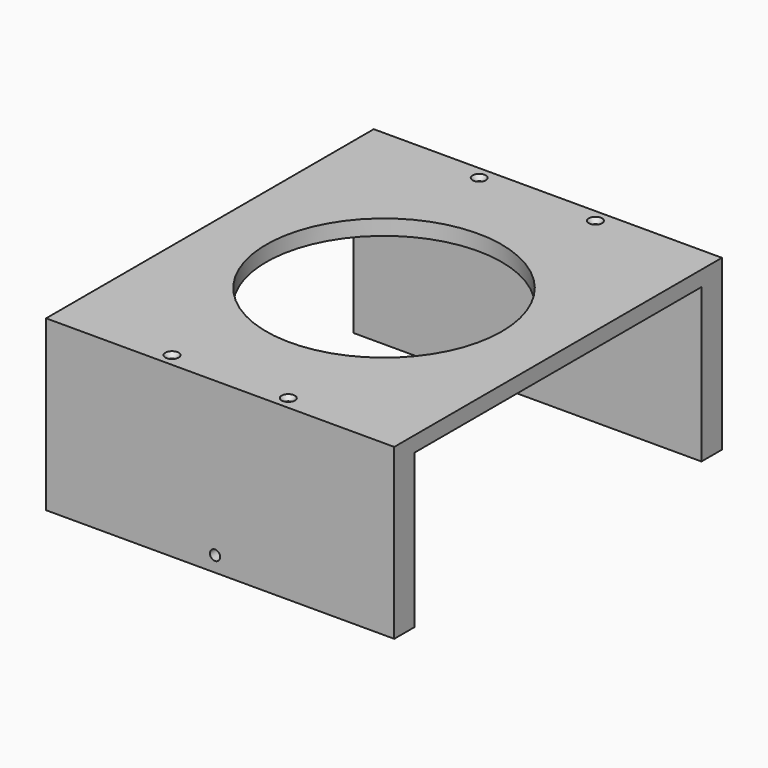
from build123d import *

# Parameters (mm, degrees)
SKETCH009_W     = 68
SKETCH009_H     = 80
PAD005_DEPTH    = 3
SKETCH010_R     = 23
POCKET004_DEPTH = 3
SKETCH011_W     = 68
SKETCH011_H     = 5
PAD006_DEPTH    = 30
SKETCH024_R     = 1
POCKET017_DEPTH = 5
SKETCH025_R     = 1
POCKET018_DEPTH = 5
SKETCH026_R     = 0.5
POCKET019_DEPTH = 10
CHAMFER002_SIZE = 0.8


with BuildPart() as part:
    # Sketch009 → Pad005 (new body)
    with BuildSketch(Plane.XY):
        with Locations((34, 40)):
            Rectangle(SKETCH009_W, SKETCH009_H)
    extrude(amount=PAD005_DEPTH)

    # Sketch010 (on Face6 of Pad005) → Pocket004 (cut)
    with BuildSketch(Plane.XY.offset(3)):
        with Locations((34, 40)):
            Circle(SKETCH010_R)
    extrude(amount=-POCKET004_DEPTH, mode=Mode.SUBTRACT)

    # Sketch011 (on Face4 of Pocket004) → Pad006 (join)
    with BuildSketch(Plane(origin=(0, 0, 0), x_dir=(1, 0, 0), z_dir=(0, 0, -1))):
        with Locations((34, -2.5)):
            Rectangle(SKETCH011_W, SKETCH011_H)
        with Locations((34, -77.5)):
            Rectangle(SKETCH011_W, SKETCH011_H)
    extrude(amount=PAD006_DEPTH)

    # Sketch024 (on Face4 of Pad006) → Pocket017 (cut)
    with BuildSketch(Plane.XZ):
        with Locations((33, -27)):
            Circle(SKETCH024_R)
    extrude(amount=-POCKET017_DEPTH, mode=Mode.SUBTRACT)

    # Sketch025 (on Face15 of Pocket017) → Pocket018 (cut)
    with BuildSketch(Plane(origin=(0, 80, 0), x_dir=(-1, 0, 0), z_dir=(0, 1, 0))):
        with Locations((-33, -27)):
            Circle(SKETCH025_R)
    extrude(amount=-POCKET018_DEPTH, mode=Mode.SUBTRACT)

    # Sketch026 (on Face5 of Pocket018) → Pocket019 (cut)
    with BuildSketch(Plane.XY.offset(3)):
        with Locations((22.6, 2.5)):
            Circle(SKETCH026_R)
        with Locations((45.3, 2.5)):
            Circle(SKETCH026_R)
        with Locations((22.6, 77.5)):
            Circle(SKETCH026_R)
        with Locations((45.3, 77.5)):
            Circle(SKETCH026_R)
    extrude(amount=-POCKET019_DEPTH, mode=Mode.SUBTRACT)

    # Chamfer002
    chamfer002_edges = [part.edges().sort_by_distance(p)[0] for p in [
        (22.1, 2.5, 3),
        (44.8, 2.5, 3),
        (44.8, 77.5, 3),
        (22.1, 77.5, 3),
    ]]
    chamfer(chamfer002_edges, length=CHAMFER002_SIZE)


with BuildPart() as part_1:
    # Body004 placement: moved
    add(part.part.moved(Location((7, 10, -5))))


with BuildPart() as part_2:
    # Clone001 placement: moved
    add(part_1.part.moved(Location((3, 0, 0))))


with BuildPart() as part_3:
    # Body005 placement: moved
    add(part_2.part.moved(Location((217, 0, 0))))


solid = part_3.part
